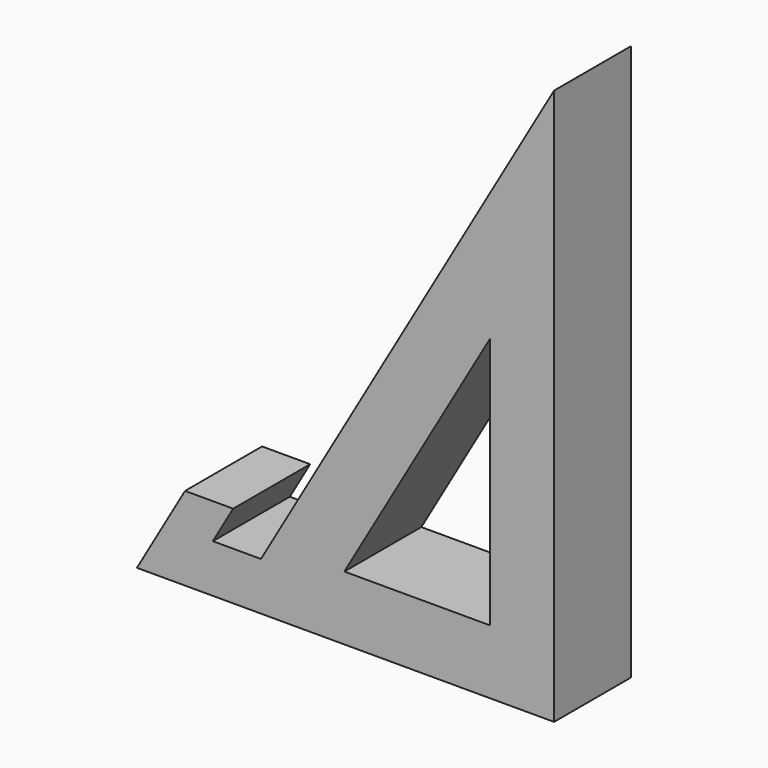
from build123d import *

# Parameters (mm, degrees)
F1_DEPTH = 4.7625


with BuildPart() as f1:
    # F0 (on Front) → F1 (new body)
    with BuildSketch(Plane.XZ):
        Polygon((-4.7625, 0), (0, 0), (15.875, 0), (15.875, 27.496307), (1.374815, 2.38125), (-1.006435, 2.38125), (0, 4.124446), (-2.38125, 4.124446), align=None)
        Polygon((12.7, 3.175), (5.499261, 3.175), (12.7, 15.647045), align=None, mode=Mode.SUBTRACT)
    extrude(amount=F1_DEPTH)


solid = f1.part
